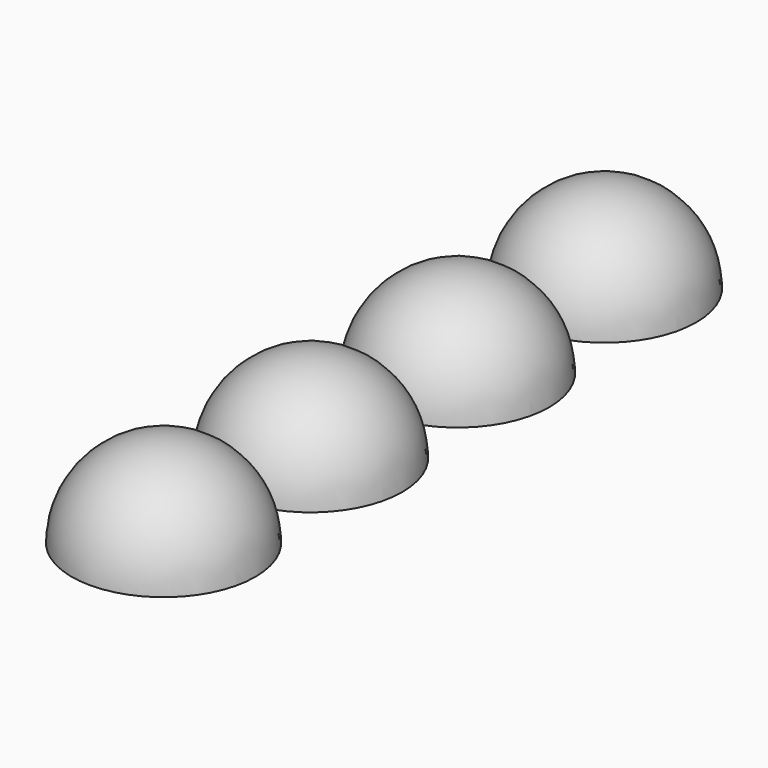
from build123d import *

# Parameters (mm, degrees)
F1_ANGLE = -180


with BuildPart() as f1:
    # F0 (on Top) → F1 (revolve)
    with BuildSketch(Plane.XY):
        with BuildLine():
            Line((0, 27), (0, 13.5))
            ThreePointArc((0, 13.5), (6.75, 20.25), (0, 27))
        make_face()
        with BuildLine():
            Line((0, 13.5), (0, 0))
            ThreePointArc((0, 0), (6.75, 6.75), (0, 13.5))
        make_face()
        with BuildLine():
            ThreePointArc((0, -13.5), (6.75, -6.75), (0, 0))
            Line((0, 0), (0, -13.5))
        make_face()
        with BuildLine():
            ThreePointArc((0, -27), (6.75, -20.25), (0, -13.5))
            Line((0, -13.5), (0, -27))
        make_face()
    revolve(axis=Axis((0, 6.75, 0), (0, 1, 0)), revolution_arc=F1_ANGLE)


solid = f1.part
